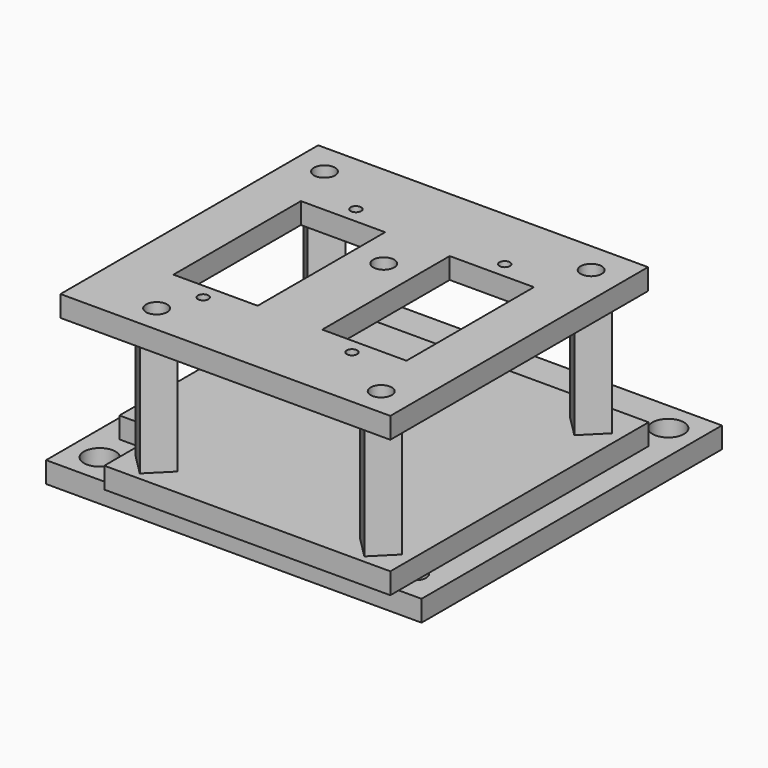
from build123d import *

# Parameters (mm, degrees)
CYLINDER001_R     = 1.5
CYLINDER001_DEPTH = 10
ARRAY001_X_COUNT  = 3
ARRAY001_X_PITCH  = 31.819805
CYLINDER_R        = 2.25
CYLINDER_DEPTH    = 10
ARRAY_X_COUNT     = 2
ARRAY_X_PITCH     = 63.63961
BOX_W             = 53.5
BOX_H             = 53.5
BOX_DEPTH         = 3
CYLINDER009_R     = 1.5
CYLINDER009_DEPTH = 27
PRISM002_DEPTH    = 20
CYLINDER008_R     = 1.5
CYLINDER008_DEPTH = 27
BOX004_W          = 10
BOX004_H          = 11
BOX004_DEPTH      = 3
CYLINDER007_R     = 1.5
CYLINDER007_DEPTH = 27
PRISM001_DEPTH    = 20
CYLINDER003_R     = 1.5
CYLINDER003_DEPTH = 27
ARRAY002_Y_COUNT  = 2
ARRAY002_Y_PITCH  = 37.4
CYLINDER002_R     = 2.5
CYLINDER002_DEPTH = 10
PRISM_DEPTH       = 20
ARRAY003_Y_COUNT  = 2
ARRAY003_Y_PITCH  = 37.4
BOX001_W          = 47
BOX001_H          = 46
BOX001_DEPTH      = 3
CYLINDER011_R     = 1.5
CYLINDER011_DEPTH = 10
CYLINDER010_R     = 1.5
CYLINDER010_DEPTH = 10
CYLINDER006_R     = 0.75
CYLINDER006_DEPTH = 10
ARRAY006_X_COUNT  = 2
ARRAY006_X_PITCH  = 21.2
ARRAY006_Y_COUNT  = 2
ARRAY006_Y_PITCH  = 27.2
BOX003_W          = 12
BOX003_H          = 22.7
BOX003_DEPTH      = 10
ARRAY004_X_COUNT  = 2
ARRAY004_X_PITCH  = 21.2
CYLINDER004_R     = 1.5
CYLINDER004_DEPTH = 10
ARRAY005_Y_COUNT  = 2
ARRAY005_Y_PITCH  = 37.4
CYLINDER005_R     = 1.5
CYLINDER005_DEPTH = 10
BOX002_W          = 47
BOX002_H          = 45.9
BOX002_DEPTH      = 3


with BuildPart() as array001:
    # Cylinder001 → Cylinder001 (new body)
    with BuildSketch(Plane(origin=(49.25, 4.25, 0), x_dir=(1, 0, 0), z_dir=(0, 0, 1))):
        Circle(CYLINDER001_R)
    extrude(amount=CYLINDER001_DEPTH)

    # Array001 X: Array001 ×3


with BuildPart() as array001_1:
    add(array001.part)
    with Locations(*[Vector(-0.707107, 0.707107, 0) * (i * ARRAY001_X_PITCH) for i in range(1, ARRAY001_X_COUNT)]):
        add(array001.part)


with BuildPart() as taladros:
    # Cylinder → Cylinder (new body)
    with BuildSketch(Plane(origin=(49.25, 49.25, -4), x_dir=(1, 0, 0), z_dir=(0, 0, 1))):
        Circle(CYLINDER_R)
    extrude(amount=CYLINDER_DEPTH)

    # Array X: Taladros ×2


with BuildPart() as taladros_1:
    add(taladros.part)
    with Locations(*[Vector(-0.707107, -0.707107, 0) * (i * ARRAY_X_PITCH) for i in range(1, ARRAY_X_COUNT)]):
        add(taladros.part)

    # Fusion: union Array001
    add(array001_1.part)


with BuildPart() as obj1:
    # Box → Box (new body)
    with BuildSketch(Plane.XY):
        with Locations((26.75, 26.75)):
            Rectangle(BOX_W, BOX_H)
    extrude(amount=BOX_DEPTH)

    # Cut: cut Taladros
    add(taladros_1.part, mode=Mode.SUBTRACT)


with BuildPart() as cylinder009:
    # Cylinder009 → Cylinder009 (new body)
    with BuildSketch(Plane(origin=(39.75, 2.5, 0), x_dir=(1, 0, 0), z_dir=(0, 0, 1))):
        Circle(CYLINDER009_R)
    extrude(amount=CYLINDER009_DEPTH)


with BuildPart() as cut006:
    # Prism002 → Prism002 (new body)
    with BuildSketch(Plane(origin=(39.75, 2.5, 3), x_dir=(1, 0, 0), z_dir=(0, 0, 1))):
        Polygon((3, 0), (0, 3), (-3, 0), (0, -3), align=None)
    extrude(amount=PRISM002_DEPTH)

    # Cut006: cut Cylinder009
    add(cylinder009.part, mode=Mode.SUBTRACT)


with BuildPart() as cylinder008:
    # Cylinder008 → Cylinder008 (new body)
    with BuildSketch(Plane(origin=(39.75, 2.5, 0), x_dir=(1, 0, 0), z_dir=(0, 0, 1))):
        Circle(CYLINDER008_R)
    extrude(amount=CYLINDER008_DEPTH)


with BuildPart() as obj2:
    # Box004 → Box004 (new body)
    with BuildSketch(Plane(origin=(44, -2, 3), x_dir=(1, 0, 0), z_dir=(0, 0, 1))):
        with Locations((5, 5.5)):
            Rectangle(BOX004_W, BOX004_H)
    extrude(amount=BOX004_DEPTH)


with BuildPart() as cylinder007:
    # Cylinder007 → Cylinder007 (new body)
    with BuildSketch(Plane(origin=(45.75, 39.9, 0), x_dir=(1, 0, 0), z_dir=(0, 0, 1))):
        Circle(CYLINDER007_R)
    extrude(amount=CYLINDER007_DEPTH)


with BuildPart() as prism001:
    # Prism001 → Prism001 (new body)
    with BuildSketch(Plane(origin=(45.75, 39.9, 3), x_dir=(1, 0, 0), z_dir=(0, 0, 1))):
        Polygon((3, 0), (0, 3), (-3, 0), (0, -3), align=None)
    extrude(amount=PRISM001_DEPTH)


with BuildPart() as array002:
    # Cylinder003 → Cylinder003 (new body)
    with BuildSketch(Plane(origin=(7.75, 2.5, 0), x_dir=(1, 0, 0), z_dir=(0, 0, 1))):
        Circle(CYLINDER003_R)
    extrude(amount=CYLINDER003_DEPTH)

    # Array002 Y: Array002 ×2


with BuildPart() as array002_1:
    add(array002.part)
    with Locations(*[(0, i * ARRAY002_Y_PITCH, 0) for i in range(1, ARRAY002_Y_COUNT)]):
        add(array002.part)


with BuildPart() as fusion002:
    # Cylinder002 → Cylinder002 (new body)
    with BuildSketch(Plane(origin=(26.75, 26.75, 0), x_dir=(1, 0, 0), z_dir=(0, 0, 1))):
        Circle(CYLINDER002_R)
    extrude(amount=CYLINDER002_DEPTH)

    # Fusion002: union Array002
    add(array002_1.part)


with BuildPart() as obj3:
    # Prism → Prism (new body)
    with BuildSketch(Plane(origin=(7.75, 2.5, 3), x_dir=(1, 0, 0), z_dir=(0, 0, 1))):
        Polygon((3, 0), (0, 3), (-3, 0), (0, -3), align=None)
    extrude(amount=PRISM_DEPTH)

    # Array003 Y: obj3 ×2


with BuildPart() as obj3_1:
    add(obj3.part)
    with Locations(*[(0, i * ARRAY003_Y_PITCH, 0) for i in range(1, ARRAY003_Y_COUNT)]):
        add(obj3.part)


with BuildPart() as top_plate_final:
    # Box001 → Box001 (new body)
    with BuildSketch(Plane(origin=(3.25, -1.5, 3), x_dir=(1, 0, 0), z_dir=(0, 0, 1))):
        with Locations((23.5, 23)):
            Rectangle(BOX001_W, BOX001_H)
    extrude(amount=BOX001_DEPTH)

    # Fusion001: union obj3
    add(obj3_1.part)

    # Cut001: cut Fusion002
    add(fusion002.part, mode=Mode.SUBTRACT)

    # Fusion004: union Prism001
    add(prism001.part)

    # Cut003: cut Cylinder007
    add(cylinder007.part, mode=Mode.SUBTRACT)

    # Cut004: cut obj2
    add(obj2.part, mode=Mode.SUBTRACT)

    # Cut005: cut Cylinder008
    add(cylinder008.part, mode=Mode.SUBTRACT)

    # Fusion005: union Cut006
    add(cut006.part)


with BuildPart() as part_mirroring:
    # Part__Mirroring: instance of top plate final
    add(top_plate_final.part.mirror(Plane(origin=(0, 0, 0), x_dir=(0, -1, 0), z_dir=(1, 0, 0))))


with BuildPart() as part_mirroring_1:
    # Part__Mirroring placement: moved
    add(part_mirroring.part.moved(Location((53.5, 0, 0))))


with BuildPart() as cylinder011:
    # Cylinder011 → Cylinder011 (new body)
    with BuildSketch(Plane(origin=(39.75, 2.5, 18.5), x_dir=(1, 0, 0), z_dir=(0, 0, 1))):
        Circle(CYLINDER011_R)
    extrude(amount=CYLINDER011_DEPTH)


with BuildPart() as cylinder010:
    # Cylinder010 → Cylinder010 (new body)
    with BuildSketch(Plane(origin=(45.75, 39.9, 19.5), x_dir=(1, 0, 0), z_dir=(0, 0, 1))):
        Circle(CYLINDER010_R)
    extrude(amount=CYLINDER010_DEPTH)


with BuildPart() as array006:
    # Cylinder006 → Cylinder006 (new body)
    with BuildSketch(Plane(origin=(16.15, 7.8, 19.5), x_dir=(1, 0, 0), z_dir=(0, 0, 1))):
        Circle(CYLINDER006_R)
    extrude(amount=CYLINDER006_DEPTH)

    # Array006 X: Array006 ×2


with BuildPart() as array006_1:
    add(array006.part)
    with Locations(*[(i * ARRAY006_X_PITCH, 0, 0) for i in range(1, ARRAY006_X_COUNT)]):
        add(array006.part)

    # Array006 Y: Array006 ×2


with BuildPart() as array006_2:
    add(array006_1.part)
    with Locations(*[(0, i * ARRAY006_Y_PITCH, 0) for i in range(1, ARRAY006_Y_COUNT)]):
        add(array006_1.part)


with BuildPart() as array_taladro_servomotor:
    # Box003 → Box003 (new body)
    with BuildSketch(Plane(origin=(10.15, 10, 19.5), x_dir=(1, 0, 0), z_dir=(0, 0, 1))):
        with Locations((6, 11.35)):
            Rectangle(BOX003_W, BOX003_H)
    extrude(amount=BOX003_DEPTH)

    # Array004 X: Array taladro servomotor ×2


with BuildPart() as array_taladro_servomotor_1:
    add(array_taladro_servomotor.part)
    with Locations(*[(i * ARRAY004_X_PITCH, 0, 0) for i in range(1, ARRAY004_X_COUNT)]):
        add(array_taladro_servomotor.part)


with BuildPart() as array005:
    # Cylinder004 → Cylinder004 (new body)
    with BuildSketch(Plane(origin=(7.75, 2.5, 19.5), x_dir=(1, 0, 0), z_dir=(0, 0, 1))):
        Circle(CYLINDER004_R)
    extrude(amount=CYLINDER004_DEPTH)

    # Array005 Y: Array005 ×2


with BuildPart() as array005_1:
    add(array005.part)
    with Locations(*[(0, i * ARRAY005_Y_PITCH, 0) for i in range(1, ARRAY005_Y_COUNT)]):
        add(array005.part)


with BuildPart() as fusion003:
    # Cylinder005 → Cylinder005 (new body)
    with BuildSketch(Plane(origin=(26.75, 26.7, 19.5), x_dir=(1, 0, 0), z_dir=(0, 0, 1))):
        Circle(CYLINDER005_R)
    extrude(amount=CYLINDER005_DEPTH)

    # Fusion003: union Array006, Array taladro servomotor, Array005
    add(array006_2.part)
    add(array_taladro_servomotor_1.part)
    add(array005_1.part)


with BuildPart() as base_final:
    # Box002 → Box002 (new body)
    with BuildSketch(Plane(origin=(3.25, -1.5, 22.5), x_dir=(1, 0, 0), z_dir=(0, 0, 1))):
        with Locations((23.5, 22.95)):
            Rectangle(BOX002_W, BOX002_H)
    extrude(amount=BOX002_DEPTH)

    # Cut002: cut Fusion003
    add(fusion003.part, mode=Mode.SUBTRACT)

    # Cut007: cut Cylinder010
    add(cylinder010.part, mode=Mode.SUBTRACT)

    # Cut008: cut Cylinder011
    add(cylinder011.part, mode=Mode.SUBTRACT)


with BuildPart() as part_mirroring001:
    # Part__Mirroring001: instance of base final
    add(base_final.part.mirror(Plane(origin=(0, 0, 0), x_dir=(0, -1, 0), z_dir=(1, 0, 0))))


with BuildPart() as part_mirroring001_1:
    # Part__Mirroring001 placement: moved
    add(part_mirroring001.part.moved(Location((53.5, 0, 0))))


solid = Compound([obj1.part, part_mirroring_1.part, part_mirroring001_1.part])
